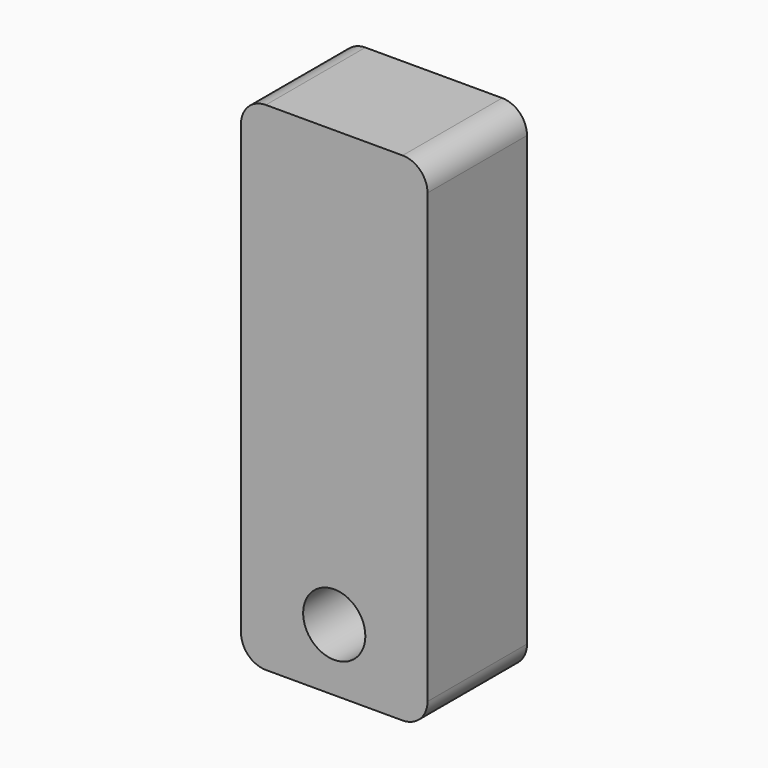
from build123d import *

# Parameters (mm, degrees)
F0_W     = 38.1
F0_H     = 101.6
F0_R     = 6.35
F1_DEPTH = 12.7
F2_R     = 5.08


with BuildPart() as f1:
    # F0 (on Front) → F1 (new body, symmetric)
    with BuildSketch(Plane.XZ):
        Rectangle(F0_W, F0_H)
        with Locations((0, -38.1)):
            Circle(F0_R, mode=Mode.SUBTRACT)
    extrude(amount=F1_DEPTH, both=True)

    # F2
    f2_edges = [f1.edges().sort_by_distance(p)[0] for p in [
        (-19.05, 0, 50.8),
        (19.05, 0, 50.8),
        (19.05, 0, -50.8),
        (-19.05, 0, -50.8),
    ]]
    fillet(f2_edges, radius=F2_R)


solid = f1.part
